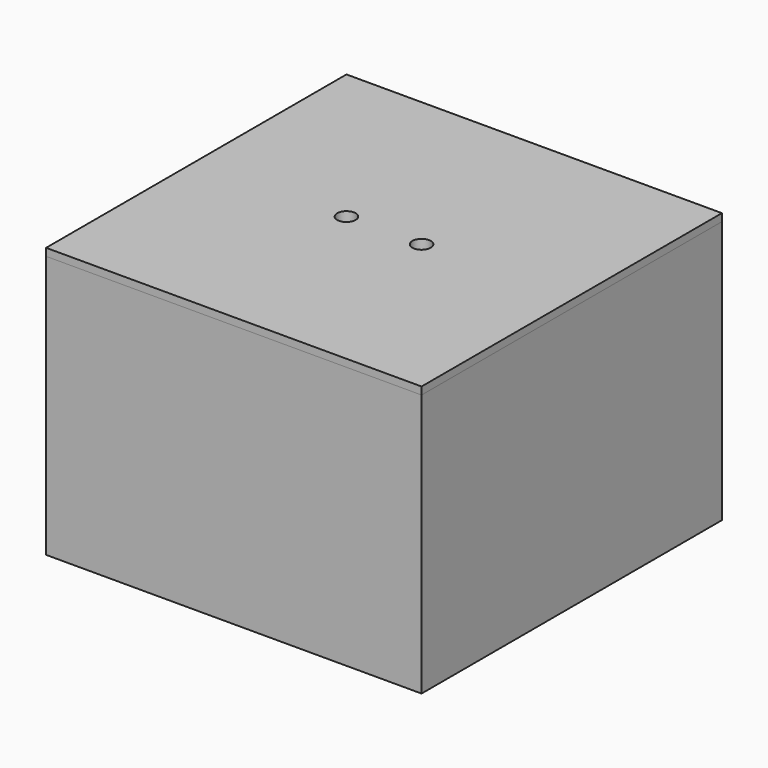
from build123d import *

# Parameters (mm, degrees)
F0_W      = 100
F0_H      = 100
F1_DEPTH  = 70
F2_T      = -2
F3_R      = 2
F4_DEPTH  = 10
F5_W      = 47.5
F5_H      = 27.5
F6_DEPTH  = 25
F7_W      = 95.5
F7_H      = 95.5
F8_DEPTH  = 2
F9_W      = 100
F9_H      = 100
F10_DEPTH = 2
F11_R     = 2.455
F12_DEPTH = 25


with BuildPart() as f1:
    # F0 (on Top) → F1 (new body)
    with BuildSketch(Plane.XY):
        Rectangle(F0_W, F0_H)
    extrude(amount=F1_DEPTH)

    # F2
    f2_openings = [f1.faces().sort_by_distance(p)[0] for p in [
        (0, 0, 70),
    ]]
    offset(amount=F2_T, openings=f2_openings)

    # F3 (on face) → F4 (join)
    with BuildSketch(Plane.XY.offset(2)):
        with Locations((-41, -5)):
            Circle(F3_R)
        with Locations((-41, -18)):
            Circle(F3_R)
        with Locations((41, -5)):
            Circle(F3_R)
        with Locations((41, -18)):
            Circle(F3_R)
    extrude(amount=F4_DEPTH)

    # F5 (on face) → F6 (cut)
    with BuildSketch(Plane(origin=(0, 50, 0), x_dir=(-1, 0, 0), z_dir=(0, 1, 0))):
        with Locations((0, 25.75)):
            Rectangle(F5_W, F5_H)
    extrude(amount=-F6_DEPTH, mode=Mode.SUBTRACT)


with BuildPart() as f8:
    # F7 (on face) → F8 (new body)
    with BuildSketch(Plane.XY.offset(70)):
        Rectangle(F7_W, F7_H)
    extrude(amount=-F8_DEPTH)

    # F9 (on face) → F10 (join)
    with BuildSketch(Plane.XY.offset(70)):
        Rectangle(F9_W, F9_H)
    extrude(amount=F10_DEPTH)

    # F11 (on face) → F12 (cut)
    with BuildSketch(Plane.XY.offset(72)):
        with Locations((10, 0)):
            Circle(F11_R)
        with Locations((-10, 0)):
            Circle(F11_R)
    extrude(amount=-F12_DEPTH, mode=Mode.SUBTRACT)


solid = Compound([f1.part, f8.part])
